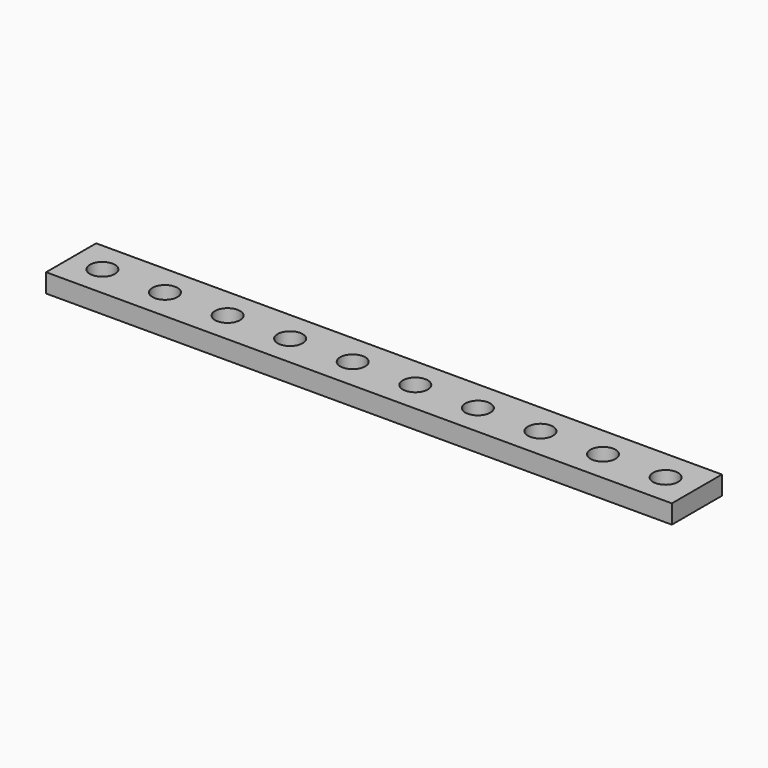
from build123d import *

# Parameters (mm, degrees)
CYLINDER_R     = 2
CYLINDER_DEPTH = 10
BOX_W          = 10
BOX_H          = 10
BOX_DEPTH      = 3
ARRAY_X_COUNT  = 10
ARRAY_X_PITCH  = 10


with BuildPart() as cilindro:
    # Cylinder → Cylinder (new body)
    with BuildSketch(Plane(origin=(5, 5, -3), x_dir=(1, 0, 0), z_dir=(0, 0, 1))):
        Circle(CYLINDER_R)
    extrude(amount=CYLINDER_DEPTH)


with BuildPart() as obj1:
    # Box → Box (new body)
    with BuildSketch(Plane.XY):
        with Locations((5, 5)):
            Rectangle(BOX_W, BOX_H)
    extrude(amount=BOX_DEPTH)

    # Cut: cut Cilindro
    add(cilindro.part, mode=Mode.SUBTRACT)

    # Array X: obj1 ×10


with BuildPart() as obj1_1:
    add(obj1.part)
    with Locations(*[(i * ARRAY_X_PITCH, 0, 0) for i in range(1, ARRAY_X_COUNT)]):
        add(obj1.part)


solid = obj1_1.part
